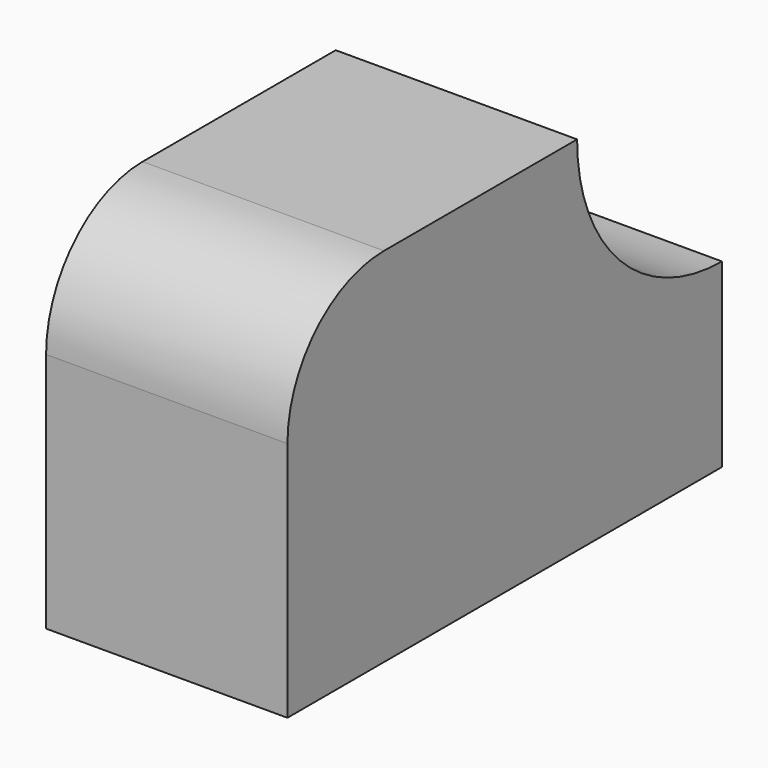
from build123d import *

# Parameters (mm, degrees)
F0_W     = 57.15
F0_H     = 38.1
F1_DEPTH = 25.4
F2_R     = 12.7
F4_DEPTH = 25.4


with BuildPart() as f1:
    # F0 (on Right) → F1 (new body)
    with BuildSketch(Plane.YZ):
        with Locations((28.575, 19.05)):
            Rectangle(F0_W, F0_H)
    extrude(amount=F1_DEPTH)

    # F2
    f2_edges = [f1.edges().sort_by_distance(p)[0] for p in [
        (12.7, 0, 38.1),
    ]]
    fillet(f2_edges, radius=F2_R)

    # F3 (on face) → F4 (cut)
    with BuildSketch(Plane.YZ.offset(25.4)):
        with BuildLine():
            Line((57.15, 38.1), (38.1, 38.1))
            ThreePointArc((38.1, 38.1), (43.6796158184, 24.6296158184), (57.15, 19.05))
            Line((57.15, 19.05), (57.15, 38.1))
        make_face()
    extrude(amount=-F4_DEPTH, mode=Mode.SUBTRACT)


solid = f1.part
